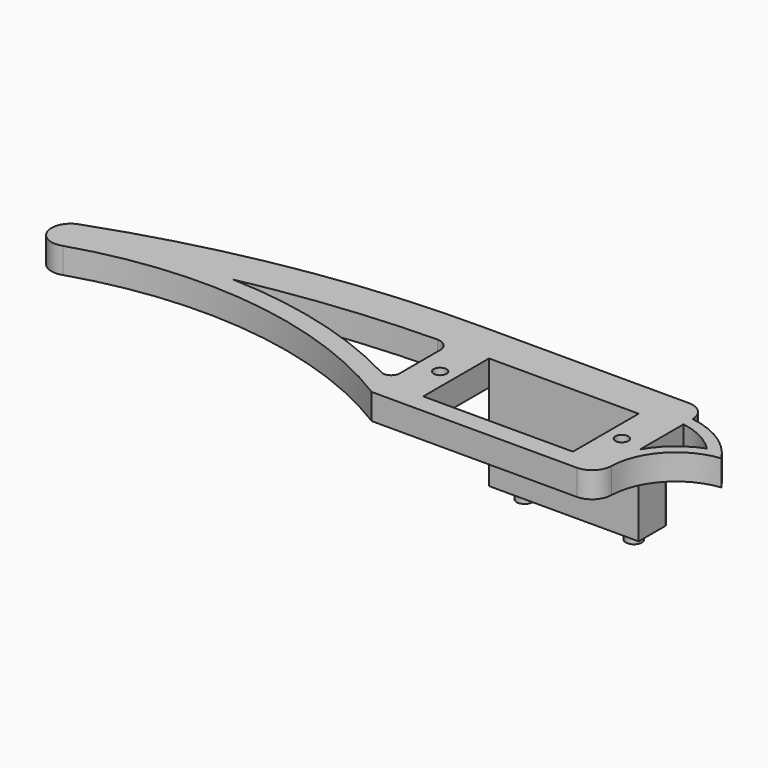
from build123d import *

# Parameters (mm, degrees)
SKETCH_R     = 1
SKETCH_W     = 23.3
SKETCH_H     = 12.8
PAD_DEPTH    = 4
SKETCH001_W  = 23.3
SKETCH001_H  = 6
PAD001_DEPTH = 13.5
SKETCH002_R  = 1.25
PAD002_DEPTH = 2
SKETCH003_R  = 1.4
POCKET_DEPTH = 11
FILLET_R     = 1
FILLET001_R  = 1


with BuildPart() as part:
    # Sketch → Pad (new body)
    with BuildSketch(Plane.XY):
        with BuildLine():
            Line((-17.65, 12.4), (14.65, 12.4))
            ThreePointArc((17.65, 9.4), (16.77132, 11.52132), (14.65, 12.4))
            ThreePointArc((26.84, 3.51), (22.883245, 7.450836), (17.65, 9.4))
            ThreePointArc((26.84, 3.51), (20.406481, 0.259943), (17.65, -6.4))
            ThreePointArc((14.65, -9.4), (16.77132, -8.52132), (17.65, -6.4))
            Line((14.65, -9.4), (-17.27, -9.4))
            ThreePointArc((-17.27, -9.4), (-43.226691, -0.259051), (-70.626477, -2.82))
            ThreePointArc((-72.67, 2.821276), (-74.470639, -1.021762), (-70.626477, -2.82))
            ThreePointArc((-17.65, 12.4), (-45.579054, 10.017677), (-72.67, 2.821276))
        make_face()
        with Locations((-14.15, 0)):
            Circle(SKETCH_R, mode=Mode.SUBTRACT)
        with Locations((14.15, 0)):
            Circle(SKETCH_R, mode=Mode.SUBTRACT)
        Rectangle(SKETCH_W, SKETCH_H, mode=Mode.SUBTRACT)
        with BuildLine():
            Line((17.65, 7.636176), (17.65, -0.84))
            ThreePointArc((23.88, 4.42), (20.301686, 2.338754), (17.65, -0.84))
            ThreePointArc((23.88, 4.42), (21.017458, 6.51712), (17.65, 7.636176))
        make_face(mode=Mode.SUBTRACT)
        with BuildLine():
            Line((-17.66615, -3.466269), (-17.66615, 4.388555))
            ThreePointArc((-17.66615, 4.388555), (-18.261027, 5.807615), (-19.69, 6.378267))
            ThreePointArc((-19.69, 6.378267), (-34.408413, 5.451456), (-48.98, 3.18))
            ThreePointArc((-19.59, -4.623545), (-33.83794, 0.961961), (-48.98, 3.18))
            ThreePointArc((-19.59, -4.623545), (-18.300889, -4.58882), (-17.66615, -3.466269))
        make_face(mode=Mode.SUBTRACT)
    extrude(amount=PAD_DEPTH)

    # Sketch001 (on Face24 of Pad) → Pad001 (join)
    with BuildSketch(Plane(origin=(0, 0, 0), x_dir=(1, 0, 0), z_dir=(0, 0, -1))):
        with Locations((0, -9.4)):
            Rectangle(SKETCH001_W, SKETCH001_H)
    extrude(amount=PAD001_DEPTH)

    # Sketch002 (on Face29 of Pad001) → Pad002 (join)
    with BuildSketch(Plane(origin=(0, 0, -13.5), x_dir=(1, 0, 0), z_dir=(0, 0, -1))):
        with Locations((-8.5, -9.4)):
            Circle(SKETCH002_R)
        with Locations((8.5, -9.4)):
            Circle(SKETCH002_R)
    extrude(amount=PAD002_DEPTH)

    # Sketch003 (on Face29 of Pad002) → Pocket (cut)
    with BuildSketch(Plane(origin=(0, 0, -13.5), x_dir=(1, 0, 0), z_dir=(0, 0, -1))):
        with Locations((0, -9.44)):
            Circle(SKETCH003_R)
    extrude(amount=-POCKET_DEPTH, mode=Mode.SUBTRACT)

    # Fillet
    fillet_edges = [part.edges().sort_by_distance(p)[0] for p in [
        (-11.65, 12.4, -6.75),
    ]]
    fillet(fillet_edges, radius=FILLET_R)

    # Fillet001
    fillet001_edges = [part.edges().sort_by_distance(p)[0] for p in [
        (11.65, 12.4, -6.75),
    ]]
    fillet(fillet001_edges, radius=FILLET001_R)


solid = part.part
